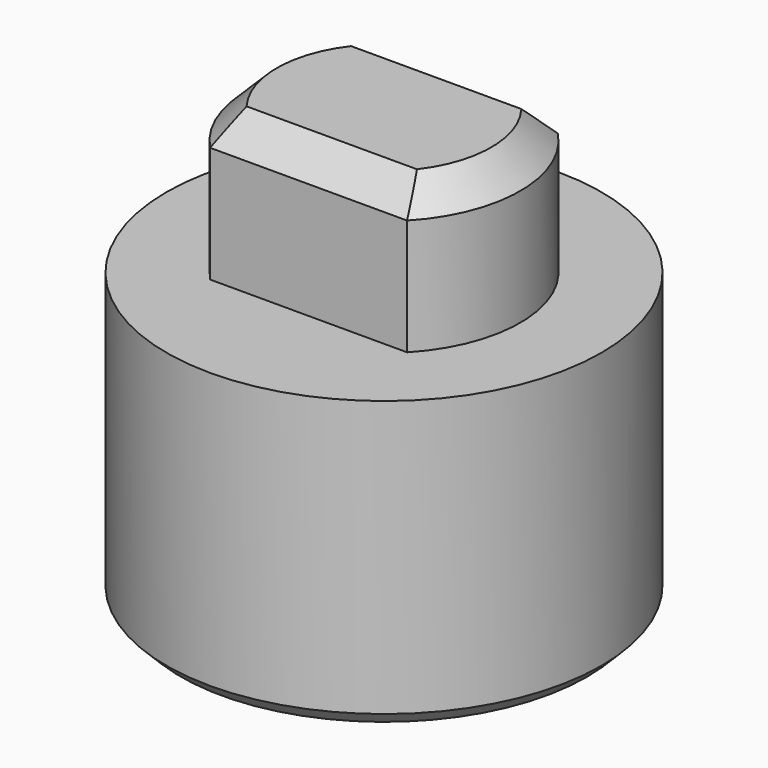
from build123d import *

# Parameters (mm, degrees)
F1_R     = 7.5
F2_DEPTH = 10
F3_START = 10
F3_DEPTH = 5
F4_SIZE  = 1
F6_DEPTH = 6
F7_SIZE  = 0.5


with BuildPart() as f2:
    # F1 (on Top) → F2 (new body)
    with BuildSketch(Plane.XY):
        Circle(F1_R)
    extrude(amount=F2_DEPTH)

    # F0 (on Top) → F3 (join)
    with BuildSketch(Plane.XY.offset(F3_START)):
        with BuildLine():
            Line((3.3952172243, 3.25), (-3.3952172243, 3.25))
            ThreePointArc((-3.3952172243, 3.25), (-4.7, 0), (-3.3952172243, -3.25))
            Line((-3.3952172243, -3.25), (3.3952172243, -3.25))
            ThreePointArc((3.3952172243, -3.25), (4.7, 0), (3.3952172243, 3.25))
        make_face()
    extrude(amount=F3_DEPTH)

    # F4
    f4_edges = [f2.edges().sort_by_distance(p)[0] for p in [
        (-4.7, 0, 15),
        (0, -3.25, 15),
        (4.7, 0, 15),
        (0, 3.25, 15),
    ]]
    chamfer(f4_edges, length=F4_SIZE)

    # F5 (on face) → F6 (cut)
    with BuildSketch(Plane(origin=(0, 0, 0), x_dir=(1, 0, 0), z_dir=(0, 0, -1))):
        with BuildLine():
            Line((-2.2118996361, -2.1), (2.2118996361, -2.1))
            ThreePointArc((2.2118996361, -2.1), (3.05, 0), (2.2118996361, 2.1))
            Line((2.2118996361, 2.1), (-2.2118996361, 2.1))
            ThreePointArc((-2.2118996361, 2.1), (-3.05, 0), (-2.2118996361, -2.1))
        make_face()
    extrude(amount=-F6_DEPTH, mode=Mode.SUBTRACT)

    # F7
    f7_edges = [f2.edges().sort_by_distance(p)[0] for p in [
        (-7.5, 0, 0),
        (0, -2.1, 0),
        (3.05, 0, 0),
        (0, 2.1, 0),
        (-3.05, 0, 0),
    ]]
    chamfer(f7_edges, length=F7_SIZE)


solid = f2.part
